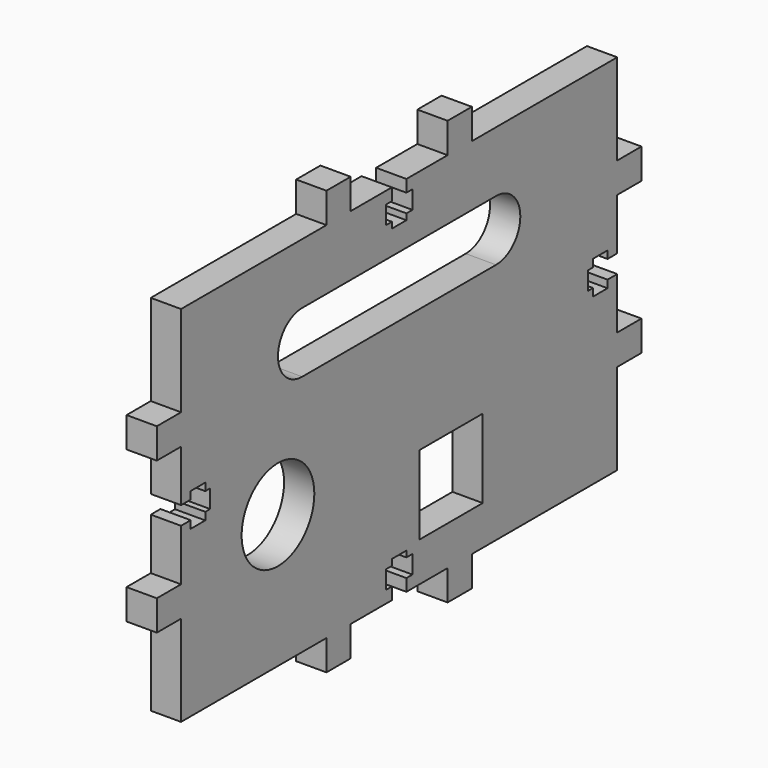
from build123d import *

# Parameters (mm, degrees)
F1_R     = 7.5
F1_W     = 13
F1_H     = 13
F2_DEPTH = 5


with BuildPart() as f2:
    # F1 (on Right) → F2 (new body)
    with BuildSketch(Plane.YZ):
        Polygon((0, 15), (0, 0), (30, 0), (30, -5), (35, -5), (35, 0), (43.5, 0), (43.5, 2), (42.25, 2), (42.25, 5), (43.5, 5), (43.5, 6), (46.5, 6), (46.5, 5), (47.75, 5), (47.75, 2), (46.5, 2), (46.5, 0), (55, 0), (55, -5), (60, -5), (60, 0), (90, 0), (90, 15), (95, 15), (95, 20), (90, 20), (90, 28.5), (88, 28.5), (88, 27.25), (85, 27.25), (85, 28.5), (84, 28.5), (84, 31.5), (85, 31.5), (85, 32.75), (88, 32.75), (88, 31.5), (90, 31.5), (90, 40), (95, 40), (95, 45), (90, 45), (90, 60), (60, 60), (60, 65), (55, 65), (55, 60), (46.5, 60), (46.5, 58), (47.75, 58), (47.75, 55), (46.5, 55), (46.5, 54), (43.5, 54), (43.5, 55), (42.25, 55), (42.25, 58), (43.5, 58), (43.5, 60), (35, 60), (35, 65), (30, 65), (30, 60), (0, 60), (0, 45), (-5, 45), (-5, 40), (0, 40), (0, 31.5), (2, 31.5), (2, 32.75), (5, 32.75), (5, 31.5), (6, 31.5), (6, 28.5), (5, 28.5), (5, 27.25), (2, 27.25), (2, 28.5), (0, 28.5), (0, 20), (-5, 20), (-5, 15), align=None)
        with Locations((20, 22)):
            Circle(F1_R, mode=Mode.SUBTRACT)
        with Locations((55.75, 13)):
            Rectangle(F1_W, F1_H, mode=Mode.SUBTRACT)
        with BuildLine():
            Line((25, 50), (65, 50))
            ThreePointArc((65, 50), (70, 45), (65, 40))
            Line((65, 40), (25, 40))
            ThreePointArc((25, 40), (20, 45), (25, 50))
        make_face(mode=Mode.SUBTRACT)
    extrude(amount=F2_DEPTH)


solid = f2.part
